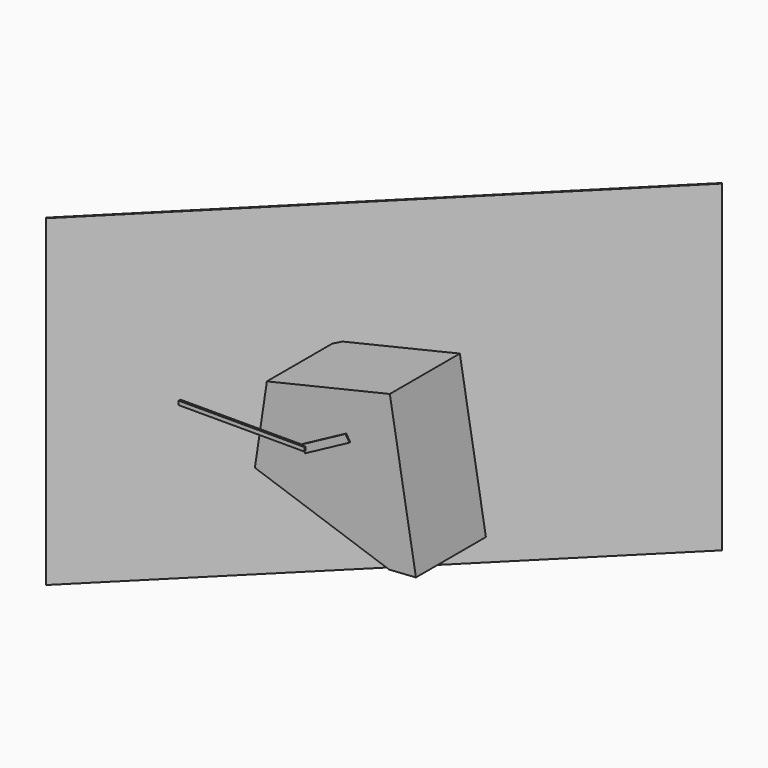
from build123d import *

# Parameters (mm, degrees)
PAD_DEPTH    = 80
SKETCH001_W  = 115
SKETCH001_H  = 3.61845
PAD001_DEPTH = 2
SKETCH002_W  = 485.407379
SKETCH002_H  = 295.218536
PAD002_DEPTH = 1
PAD003_DEPTH = 1


with BuildPart() as clock:
    # Sketch → Pad (new body)
    with BuildSketch(Plane.XZ):
        Polygon((-18.735967, 38.644798), (93.691037, 65.066546), (117.549288, -74.874246), (93.133817, -76.506926), (-29.674964, -34.420876), align=None)
    extrude(amount=PAD_DEPTH)


with BuildPart() as clock_1:
    # Body001 placement: moved
    add(clock.part.moved(Location((0, -15, 0))))


with BuildPart() as mins:
    # Sketch001 → Pad001 (new body)
    with BuildSketch(Plane.XZ.offset(100)):
        with Locations((-36.29836, -0.254388)):
            Rectangle(SKETCH001_W, SKETCH001_H)
    extrude(amount=PAD001_DEPTH)


with BuildPart() as wall:
    # Sketch002 → Pad002 (new body)
    with BuildSketch(Plane(origin=(0, 0, 0), x_dir=(0.707107, 0.707107, 0), z_dir=(0.707107, -0.707107, 0))):
        with Locations((9.658203, 3.703232)):
            Rectangle(SKETCH002_W, SKETCH002_H)
    extrude(amount=PAD002_DEPTH)


with BuildPart() as hours:
    # Sketch003 → Pad003 (new body)
    with BuildSketch(Plane.XZ.offset(100)):
        Polygon((17.86513, 2.189523), (21.14066, -3.830374), (61.5979, 17.858953), (57.791188, 23.613267), align=None)
    extrude(amount=PAD003_DEPTH)


solid = Compound([clock_1.part, mins.part, wall.part, hours.part])
